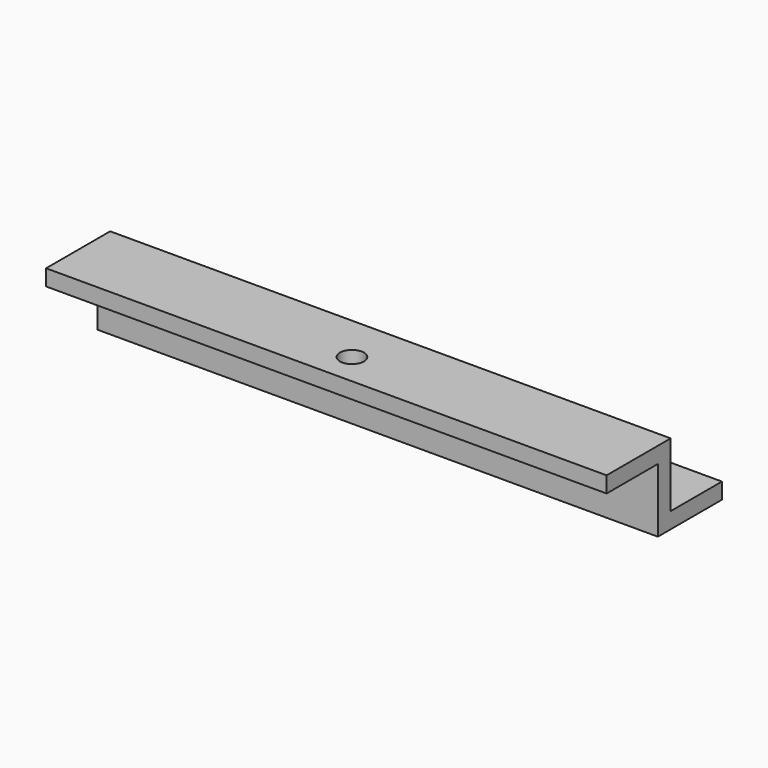
from build123d import *

# Parameters (mm, degrees)
CYLINDER001_R     = 1.5
CYLINDER001_DEPTH = 4
CYLINDER_R        = 1.5
CYLINDER_DEPTH    = 4
CYLINDER002_R     = 3
CYLINDER002_DEPTH = 4
BOX001_W          = 140
BOX001_H          = 20
BOX001_DEPTH      = 4
BOX002_W          = 140
BOX002_H          = 20
BOX002_DEPTH      = 4
BOX_W             = 140
BOX_H             = 4
BOX_DEPTH         = 20


with BuildPart() as obj1:
    # Cylinder001 → Cylinder001 (new body)
    with BuildSketch(Plane(origin=(107, 12, 0), x_dir=(1, 0, 0), z_dir=(0, 0, 1))):
        Circle(CYLINDER001_R)
    extrude(amount=CYLINDER001_DEPTH)


with BuildPart() as obj2:
    # Cylinder → Cylinder (new body)
    with BuildSketch(Plane(origin=(33, 12, 0), x_dir=(1, 0, 0), z_dir=(0, 0, 1))):
        Circle(CYLINDER_R)
    extrude(amount=CYLINDER_DEPTH)


with BuildPart() as obj3:
    # Cylinder002 → Cylinder002 (new body)
    with BuildSketch(Plane(origin=(70, -8, 16), x_dir=(1, 0, 0), z_dir=(0, 0, 1))):
        Circle(CYLINDER002_R)
    extrude(amount=CYLINDER002_DEPTH)

    # Fusion001: union obj1, obj2
    add(obj1.part)
    add(obj2.part)


with BuildPart() as obj4:
    # Box001 → Box001 (new body)
    with BuildSketch(Plane.XY):
        with Locations((70, 10)):
            Rectangle(BOX001_W, BOX001_H)
    extrude(amount=BOX001_DEPTH)


with BuildPart() as obj5:
    # Box002 → Box002 (new body)
    with BuildSketch(Plane(origin=(0, -16, 16), x_dir=(1, 0, 0), z_dir=(0, 0, 1))):
        with Locations((70, 10)):
            Rectangle(BOX002_W, BOX002_H)
    extrude(amount=BOX002_DEPTH)


with BuildPart() as obj6:
    # Box → Box (new body)
    with BuildSketch(Plane.XY):
        with Locations((70, 2)):
            Rectangle(BOX_W, BOX_H)
    extrude(amount=BOX_DEPTH)

    # Fusion: union obj4, obj5
    add(obj4.part)
    add(obj5.part)

    # Cut: cut obj3
    add(obj3.part, mode=Mode.SUBTRACT)


solid = obj6.part
